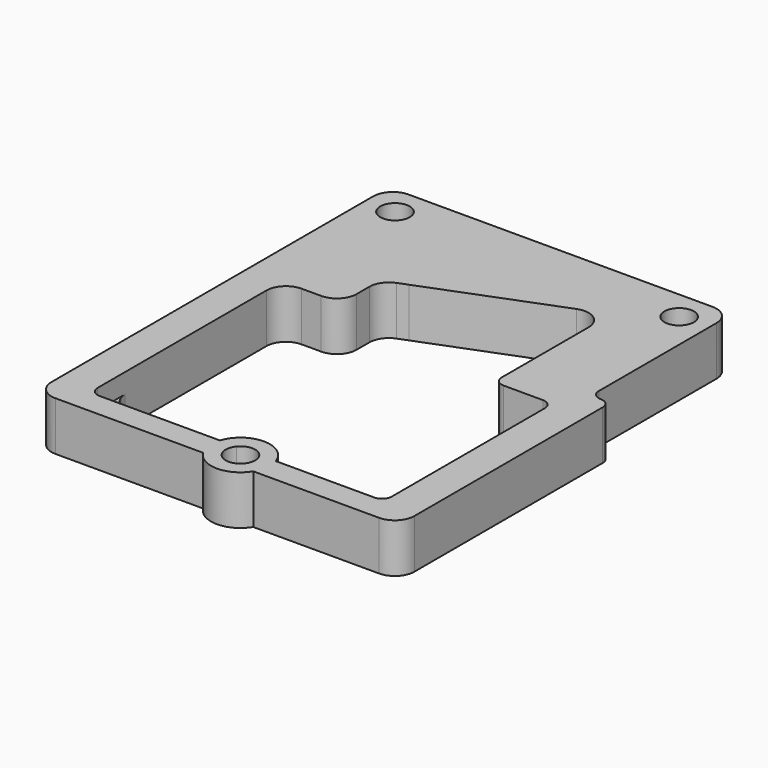
from build123d import *

# Parameters (mm, degrees)
F1_DEPTH = 3
F0_R     = 1.5
F2_DEPTH = 5


with BuildPart() as f1:
    # F0 (on Top) → F1 (new body)
    with BuildSketch(Plane.XY):
        with BuildLine():
            ThreePointArc((-13, -17.5), (-14.4142135624, -16.9142135624), (-15, -15.5))
            Line((-15, -15.5), (-15, -19))
            ThreePointArc((-15, -19), (-14.7071067812, -19.7071067812), (-14, -20))
            Line((-14, -20), (-1.7415121798, -20))
            ThreePointArc((-1.7415121798, -20), (1.1095985537, -17.9333635867), (3.9607092873, -20))
            Line((3.9607092873, -20), (14, -20))
            ThreePointArc((14, -20), (14.7071067812, -19.7071067812), (15, -19))
            Line((15, -19), (15, -15.5))
            ThreePointArc((15, -15.5), (14.4142135624, -16.9142135624), (13, -17.5))
            Line((13, -17.5), (-13, -17.5))
        make_face()
    extrude(amount=F1_DEPTH)

    # F0 (on Top) → F2 (join)
    with BuildSketch(Plane.XY):
        with BuildLine():
            Line((13.5, 22.5), (6.5, 22.5))
            Line((6.5, 22.5), (-11.5, 22.5))
            Line((-11.5, 22.5), (-11.5, 8.5277777778))
            Line((-11.5, 8.5277777778), (-7.7248925223, 9.9958751302))
            Line((-7.7248925223, 9.9958751302), (-6.7464609201, 10.3763763088))
            Line((-6.7464609201, 10.3763763088), (6.2751074777, 15.4403195747))
            ThreePointArc((6.2751074777, 15.4403195747), (8.12920657, 15.2270350791), (9, 13.5763102316))
            Line((9, 13.5763102316), (9, 2.5))
            ThreePointArc((9, 2.5), (9.2928932188, 1.7928932188), (10, 1.5))
            Line((10, 1.5), (14, 1.5))
            ThreePointArc((14, 1.5), (14.7071067812, 1.2071067812), (15, 0.5))
            Line((15, 0.5), (15, -15.5))
            Line((15, -15.5), (15, -19))
            ThreePointArc((15, -19), (14.7071067812, -19.7071067812), (14, -20))
            Line((14, -20), (3.9607092873, -20))
            ThreePointArc((3.9607092873, -20), (4.07214241, -20.4607814249), (4.1095985537, -20.9333635867))
            ThreePointArc((4.1095985537, -20.9333635867), (3.9971009856, -21.7471999991), (3.6680454163, -22.5))
            Line((3.6680454163, -22.5), (16.5, -22.5))
            ThreePointArc((16.5, -22.5), (17.9142135624, -21.9142135624), (18.5, -20.5))
            Line((18.5, -20.5), (18.5, 3.5))
            ThreePointArc((18.5, 3.5), (18.2071067812, 4.2071067812), (17.5, 4.5))
            ThreePointArc((17.5, 4.5), (16.7928932188, 4.7928932188), (16.5, 5.5))
            Line((16.5, 5.5), (16.5, 19.5))
            ThreePointArc((16.5, 19.5), (11.3786796564, 17.3786796564), (13.5, 22.5))
        make_face()
        with BuildLine():
            Line((-11.5, 8.5277777778), (-11.5, 22.5))
            Line((-11.5, 22.5), (-15.4768104476, 22.5))
            Line((-15.4768104476, 22.5), (-16.5, 22.5))
            ThreePointArc((-16.5, 22.5), (-17.9142135624, 21.9142135624), (-18.5, 20.5))
            Line((-18.5, 20.5), (-18.5, 7.5))
            Line((-18.5, 7.5), (-11.5, 7.5))
            Line((-11.5, 7.5), (-11.5, 8.5277777778))
        make_face()
        with BuildLine():
            ThreePointArc((-12.4768104712, 19.5), (-17.5981308231, 17.3786796648), (-15.4768104476, 22.5))
            ThreePointArc((-15.4768104476, 22.5), (-13.3554901193, 21.6213203352), (-12.4768104712, 19.5))
        make_face(mode=Mode.SUBTRACT)
        with BuildLine():
            Line((-7.7248925223, 9.9958751302), (-11.5, 8.5277777778))
            Line((-11.5, 8.5277777778), (-11.5, 7.5))
            Line((-11.5, 7.5), (-18.5, 7.5))
            Line((-18.5, 7.5), (-18.5, -15.5))
            Line((-18.5, -15.5), (-15, -15.5))
            Line((-15, -15.5), (-15, 2.5))
            ThreePointArc((-15, 2.5), (-14.4142135624, 3.9142135624), (-13, 4.5))
            Line((-13, 4.5), (-11, 4.5))
            ThreePointArc((-11, 4.5), (-9.5857864376, 5.0857864376), (-9, 6.5))
            Line((-9, 6.5), (-9, 8.1318657871))
            ThreePointArc((-9, 8.1318657871), (-8.6507248475, 9.2610723571), (-7.7248925223, 9.9958751302))
        make_face()
        with BuildLine():
            Line((-15, -15.5), (-18.5, -15.5))
            Line((-18.5, -15.5), (-18.5, -20.5))
            ThreePointArc((-18.5, -20.5), (-17.9142135624, -21.9142135624), (-16.5, -22.5))
            Line((-16.5, -22.5), (-1.4488483088, -22.5))
            ThreePointArc((-1.4488483088, -22.5), (-1.8700538331, -21.2821782274), (-1.7415121798, -20))
            Line((-1.7415121798, -20), (-14, -20))
            ThreePointArc((-14, -20), (-14.7071067812, -19.7071067812), (-15, -19))
            Line((-15, -19), (-15, -15.5))
        make_face()
        with BuildLine():
            ThreePointArc((-12.4768104712, 19.5), (-13.3554901193, 21.6213203352), (-15.4768104476, 22.5))
            ThreePointArc((-15.4768104476, 22.5), (-17.5981308231, 17.3786796648), (-12.4768104712, 19.5))
        make_face()
        with Locations((-15.4768104712, 19.5)):
            Circle(F0_R, mode=Mode.SUBTRACT)
        with BuildLine():
            ThreePointArc((16.5, 19.5), (15.6213203436, 21.6213203436), (13.5, 22.5))
            ThreePointArc((13.5, 22.5), (11.3786796564, 17.3786796564), (16.5, 19.5))
        make_face()
        with Locations((13.5, 19.5)):
            Circle(F0_R, mode=Mode.SUBTRACT)
        with BuildLine():
            ThreePointArc((-1.7415121798, -20), (-1.8700538331, -21.2821782274), (-1.4488483088, -22.5))
            Line((-1.4488483088, -22.5), (3.6680454163, -22.5))
            ThreePointArc((3.6680454163, -22.5), (3.9971009856, -21.7471999991), (4.1095985537, -20.9333635867))
            ThreePointArc((4.1095985537, -20.9333635867), (4.07214241, -20.4607814249), (3.9607092873, -20))
            Line((3.9607092873, -20), (2.2838355039, -20))
            ThreePointArc((2.2838355039, -20), (2.525818068, -20.439073907), (2.6095985537, -20.9333635867))
            ThreePointArc((2.6095985537, -20.9333635867), (0.6153088741, -22.3495831009), (-0.0646383964, -20))
            Line((-0.0646383964, -20), (-1.7415121798, -20))
        make_face()
        with BuildLine():
            ThreePointArc((3.9607092873, -20), (1.1095985537, -17.9333635867), (-1.7415121798, -20))
            Line((-1.7415121798, -20), (-0.0646383964, -20))
            ThreePointArc((-0.0646383964, -20), (1.1095985537, -19.4333635867), (2.2838355039, -20))
            Line((2.2838355039, -20), (3.9607092873, -20))
        make_face()
        with BuildLine():
            Line((3.6680454163, -22.5), (-1.4488483088, -22.5))
            ThreePointArc((-1.4488483088, -22.5), (1.1095985537, -23.9333635867), (3.6680454163, -22.5))
        make_face()
        with BuildLine():
            Line((14.5, 22.5), (13.5, 22.5))
            ThreePointArc((13.5, 22.5), (15.6213203436, 21.6213203436), (16.5, 19.5))
            Line((16.5, 19.5), (16.5, 20.5))
            ThreePointArc((16.5, 20.5), (15.9142135624, 21.9142135624), (14.5, 22.5))
        make_face()
    extrude(amount=F2_DEPTH)


solid = f1.part
